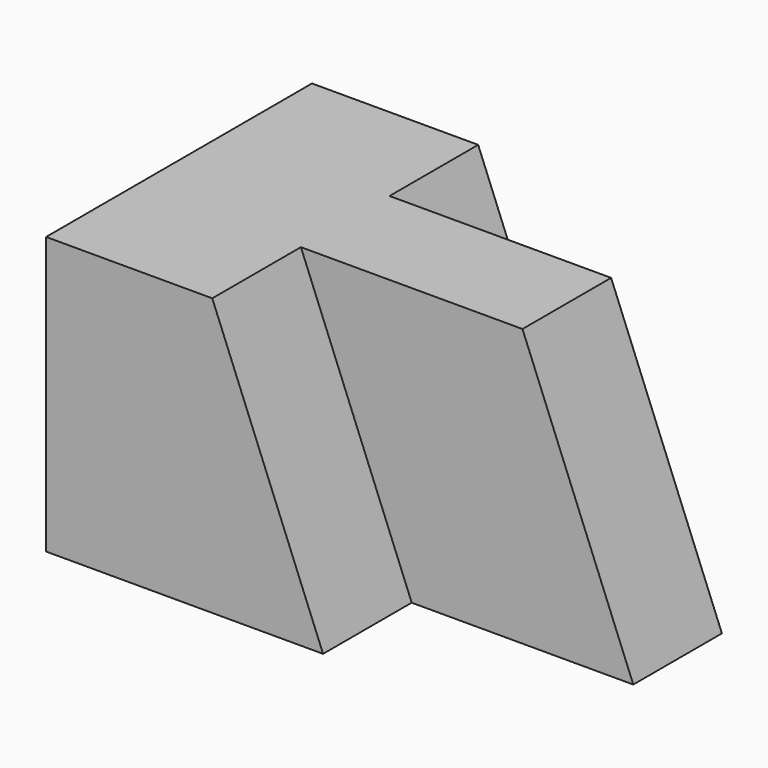
from build123d import *

# Parameters (mm, degrees)
F1_DEPTH = 63.5
F3_DEPTH = 25.4
F5_DEPTH = 25.4
F7_DEPTH = 25.4


with BuildPart() as f1:
    # F0 (on Top) → F1 (new body)
    with BuildSketch(Plane.XY):
        Polygon((-37.563371, 25.4), (-37.563371, -50.8), (25.936629, -50.8), (25.936629, -25.4), (76.736629, -25.4), (76.736629, 0), (25.936629, 0), (25.936629, 25.4), align=None)
    extrude(amount=F1_DEPTH)

    # F2 (on face) → F3 (cut)
    with BuildSketch(Plane.XZ.offset(50.8)):
        Polygon((25.936629, 63.5), (0.536629, 63.5), (25.936629, 0), align=None)
    extrude(amount=-F3_DEPTH, mode=Mode.SUBTRACT)

    # F4 (on face) → F5 (cut)
    with BuildSketch(Plane(origin=(0, 25.4, 0), x_dir=(-1, 0, 0), z_dir=(0, 1, 0))):
        Polygon((-0.536629, 63.5), (-25.936629, 63.5), (-25.936629, 0), align=None)
    extrude(amount=-F5_DEPTH, mode=Mode.SUBTRACT)

    # F6 (on face) → F7 (cut)
    with BuildSketch(Plane.XZ.offset(25.4)):
        Polygon((76.736629, 0), (76.736629, 63.5), (51.336629, 63.5), align=None)
    extrude(amount=-F7_DEPTH, mode=Mode.SUBTRACT)


solid = f1.part
